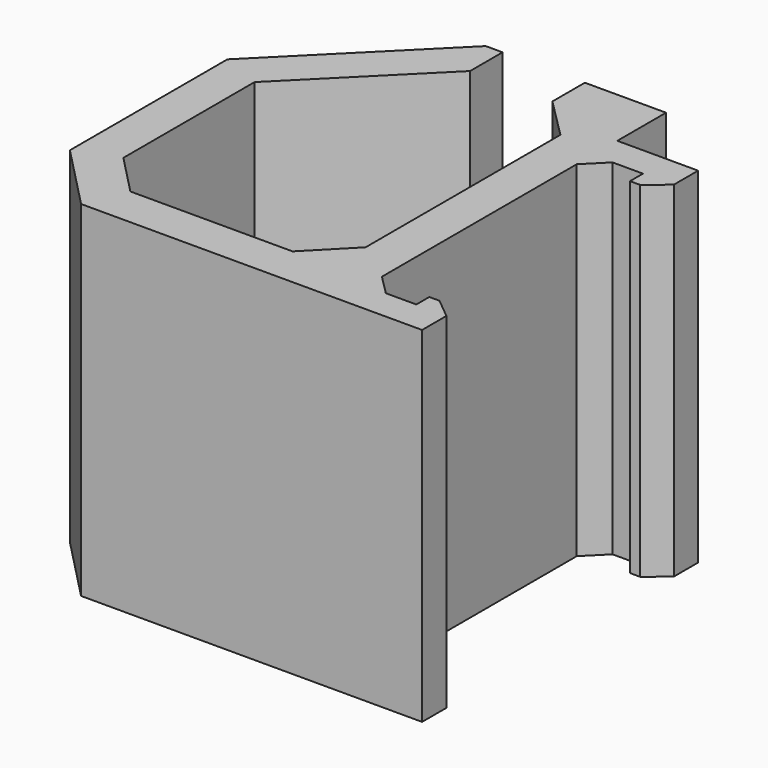
from build123d import *

# Parameters (mm, degrees)
PAD_DEPTH = 17


with BuildPart() as part:
    # Sketch (on XY_Plane of Origin) → Pad (new body)
    with BuildSketch(Plane.XY):
        Polygon((6, 1.52), (6, 2.32), (6.5, 2.32), (7.5, 1.5), (7.5, 0), (-9.3, 0), (-12.434326, 3.228932), (-12.434326, 12.928932), (-5.363258, 20), (-4.534831, 20), (-4.534831, 18), (-10.434326, 12.100505), (-10.434326, 4.021537), (-8.472019, 2), (-0.48, 2), (1.5, 4.021537), (1.5, 16.02), (-0.48, 18), (-0.48, 20), (3.52, 20), (3.52, 17), (7.5, 17), (7.5, 15.5), (6.5, 14.68), (6, 14.68), (6, 15.48), (4.5, 15.48), (3.52, 14.5), (3.52, 2.5), (4.5, 1.52), align=None)
    extrude(amount=-PAD_DEPTH)


solid = part.part
